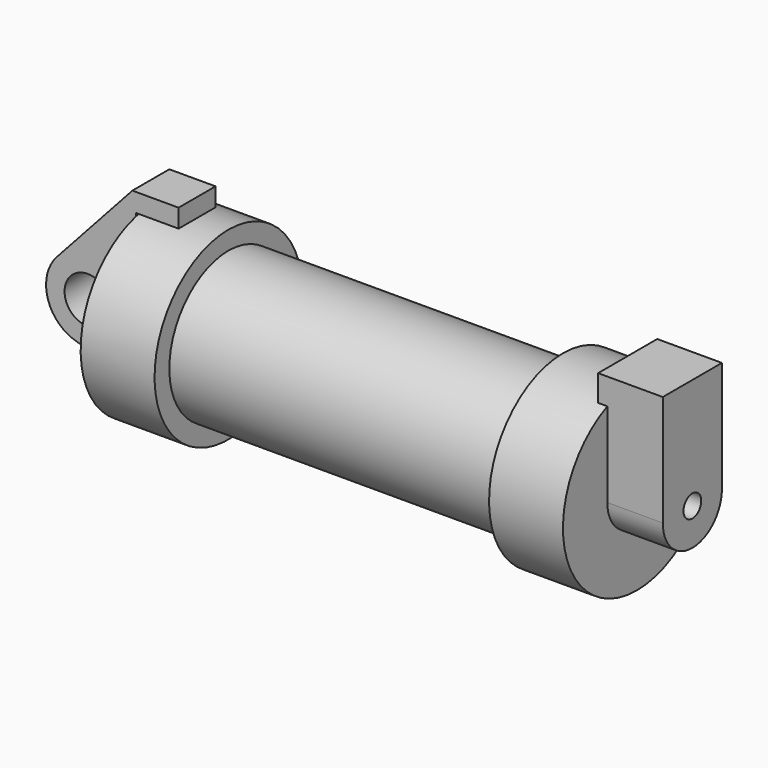
from build123d import *

# Parameters (mm, degrees)
F0_W     = 5.842
F0_H     = 12.7
F0_R     = 3.175
F2_DEPTH = 3.175
F3_R     = 1.524
F4_DEPTH = 7.62
F5_DEPTH = 1.27


with BuildPart() as f1:
    # F0 (on Front) → F1 (revolve)
    with BuildSketch(Plane.XZ):
        with Locations((2.921, 6.35)):
            Rectangle(F0_W, F0_H)
        Polygon((5.842, 12.7), (5.842, 0), (66.294, 0), (66.294, 12.7), (56.134, 12.7), (56.134, 10.16), (10.16, 10.16), (10.16, 12.7), align=None)
    revolve(axis=Axis((33.147, 0, 0), (-1, 0, 0)))

    # F3 (on face) → F4 (join)
    with BuildSketch(Plane.YZ.offset(66.294)):
        with BuildLine():
            ThreePointArc((-5.08, 0), (0, -5.08), (5.08, 0))
            ThreePointArc((5.08, 0), (0, 5.08), (-5.08, 0))
        make_face()
        Circle(F3_R, mode=Mode.SUBTRACT)
        with BuildLine():
            ThreePointArc((-5.08, 0), (0, 5.08), (5.08, 0))
            Line((5.08, 0), (5.08, 15.24))
            Line((5.08, 15.24), (-5.08, 15.24))
            Line((-5.08, 15.24), (-5.08, 0))
        make_face()
    extrude(amount=F4_DEPTH)

    # F3 (on face) → F5 (join)
    with BuildSketch(Plane.YZ.offset(66.294)):
        with BuildLine():
            ThreePointArc((-5.08, 0), (0, -5.08), (5.08, 0))
            ThreePointArc((5.08, 0), (0, 5.08), (-5.08, 0))
        make_face()
        Circle(F3_R, mode=Mode.SUBTRACT)
        with BuildLine():
            ThreePointArc((-5.08, 0), (0, 5.08), (5.08, 0))
            Line((5.08, 0), (5.08, 15.24))
            Line((5.08, 15.24), (-5.08, 15.24))
            Line((-5.08, 15.24), (-5.08, 0))
        make_face()
    extrude(amount=-F5_DEPTH)


with BuildPart() as f2:
    # F0 (on Front) → F2 (new body, symmetric)
    with BuildSketch(Plane.XZ):
        with BuildLine():
            Line((-0.9398, 0), (0, 0))
            Line((0, 0), (0, 12.7))
            Line((0, 12.7), (5.842, 12.7))
            Line((5.842, 12.7), (5.842, 15.24))
            Line((5.842, 15.24), (-0.508, 15.24))
            Line((-0.508, 15.24), (-10.88063, 3.847543))
            ThreePointArc((-10.88063, 3.847543), (-4.591961, 5.329721), (-0.9398, 0))
        make_face()
        with BuildLine():
            ThreePointArc((-8.182663, -5.506983), (-3.195791, -4.549339), (-0.9398, 0))
            ThreePointArc((-0.9398, 0), (-4.591961, 5.329721), (-10.88063, 3.847543))
            ThreePointArc((-10.88063, 3.847543), (-12.145978, -1.583727), (-8.182663, -5.506983))
        make_face()
        with Locations((-6.6548, 0)):
            Circle(F0_R, mode=Mode.SUBTRACT)
        with BuildLine():
            Line((5.842, 0), (0, 0))
            Line((0, 0), (-0.9398, 0))
            ThreePointArc((-0.9398, 0), (-3.195791, -4.549339), (-8.182663, -5.506983))
            Line((-8.182663, -5.506983), (5.842, -9.398))
            Line((5.842, -9.398), (5.842, 0))
        make_face()
    extrude(amount=F2_DEPTH, both=True)


solid = Compound([f1.part, f2.part])
